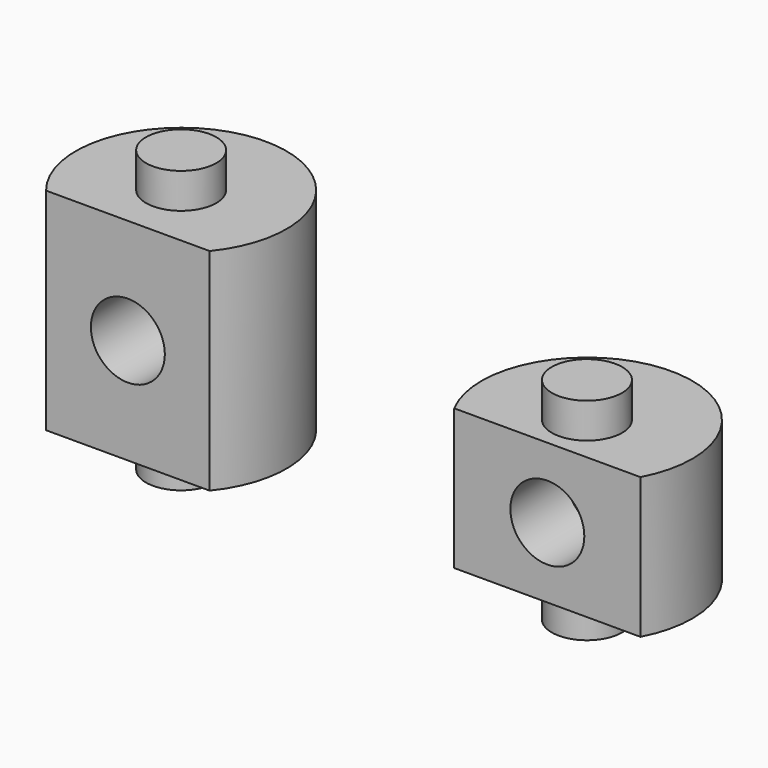
from build123d import *

# Parameters (mm, degrees)
F0_R      = 9.525
F1_DEPTH  = 12.7
F2_R      = 3.175
F3_DEPTH  = 3.175
F4_R      = 3.175
F5_DEPTH  = 3.175
F6_R      = 9.525
F7_DEPTH  = 19.05
F9_R      = 3.175
F10_DEPTH = 3.175
F8_R      = 3.175
F11_DEPTH = 3.175
F13_DEPTH = 12.7
F14_R     = 3.3401
F15_DEPTH = 6.35
F17_DEPTH = 19.05
F18_R     = 3.3401
F19_DEPTH = 25.4


with BuildPart() as f1:
    # F0 (on Top) → F1 (new body)
    with BuildSketch(Plane.XY):
        Circle(F0_R)
    extrude(amount=F1_DEPTH)

    # F2 (on face) → F3 (join)
    with BuildSketch(Plane.XY.offset(12.7)):
        Circle(F2_R)
    extrude(amount=F3_DEPTH)

    # F4 (on face) → F5 (join)
    with BuildSketch(Plane(origin=(0, 0, 0), x_dir=(1, 0, 0), z_dir=(0, 0, -1))):
        Circle(F4_R)
    extrude(amount=F5_DEPTH)

    # F12 (on face) → F13 (cut)
    with BuildSketch(Plane.XY.offset(12.7)):
        with BuildLine():
            Line((8.4092480125, -4.4732731713), (-8.4092480125, -4.4732731713))
            ThreePointArc((-8.4092480125, -4.4732731713), (0, -9.525), (8.4092480125, -4.4732731713))
        make_face()
    extrude(amount=-F13_DEPTH, mode=Mode.SUBTRACT)

    # F14 (on face) → F15 (cut)
    with BuildSketch(Plane.XZ.offset(4.4732731713)):
        with Locations((0, 6.35)):
            Circle(F14_R)
    extrude(amount=-F15_DEPTH, mode=Mode.SUBTRACT)


with BuildPart() as f7:
    # F6 (on Top) → F7 (new body)
    with BuildSketch(Plane.XY):
        with Locations((-36.6485081613, 0)):
            Circle(F6_R)
    extrude(amount=F7_DEPTH)

    # F9 (on face) → F10 (join)
    with BuildSketch(Plane(origin=(0, 0, 0), x_dir=(1, 0, 0), z_dir=(0, 0, -1))):
        with Locations((-36.6485081613, 0)):
            Circle(F9_R)
    extrude(amount=F10_DEPTH)

    # F8 (on face) → F11 (join)
    with BuildSketch(Plane.XY.offset(19.05)):
        with Locations((-36.6485081613, 0)):
            Circle(F8_R)
    extrude(amount=F11_DEPTH)

    # F16 (on face) → F17 (cut)
    with BuildSketch(Plane.XY.offset(19.05)):
        with BuildLine():
            Line((-29.2640777834, -6.0162956205), (-44.0329385393, -6.0162956205))
            ThreePointArc((-44.0329385393, -6.0162956205), (-36.6485081613, -9.525), (-29.2640777834, -6.0162956205))
        make_face()
    extrude(amount=-F17_DEPTH, mode=Mode.SUBTRACT)

    # F18 (on face) → F19 (cut)
    with BuildSketch(Plane.XZ.offset(6.0162956205)):
        with Locations((-36.6485081613, 9.525)):
            Circle(F18_R)
    extrude(amount=-F19_DEPTH, mode=Mode.SUBTRACT)


solid = Compound([f1.part, f7.part])
